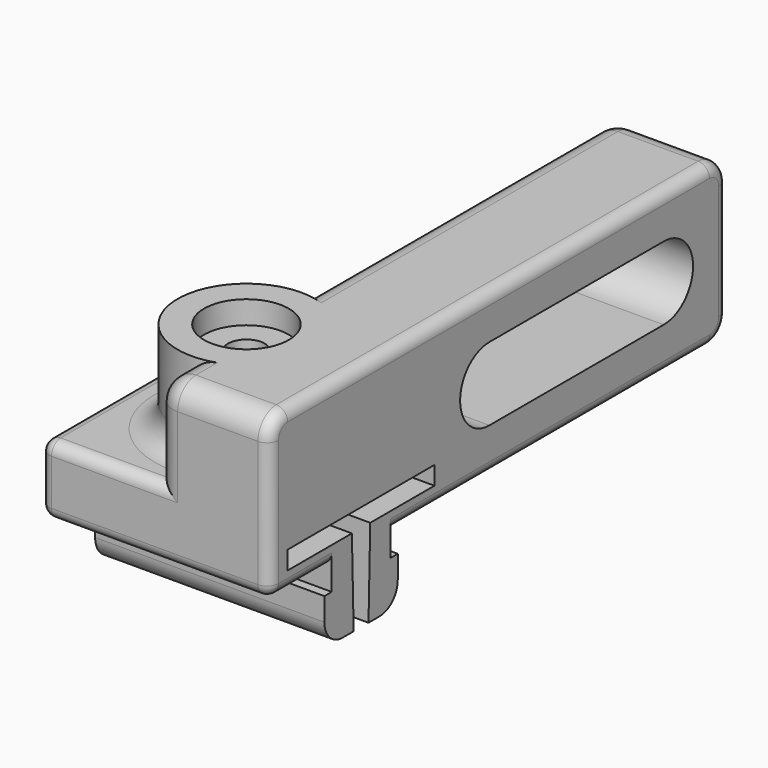
from build123d import *

# Parameters (mm, degrees)
PAD019_DEPTH        = 5
SKETCH042_R         = 3
PAD023_DEPTH        = 4
FILLET018_R         = 1
SKETCH041_W         = 7
SKETCH041_H         = 5
PAD024_DEPTH        = 25
HOLE007_D           = 1.6
HOLE007_CBORE_D     = 3.7
HOLE007_CBORE_DEPTH = 1
POCKET018_DEPTH     = 5.001
POCKET019_DEPTH     = 10.001
FILLET019_R         = 1
FILLET020_R         = 0.5
FILLET021_R         = 1


with BuildPart() as part:
    # Sketch033 → Pad019 (new body, symmetric)
    with BuildSketch(Plane.YZ):
        Polygon((-5, 7.5), (-5, 10.5), (5, 10.5), (5, 7.5), (1.6, 7.5), (1.6, 6.5), (2, 6.5), (2, 4.5), (-2, 4.5), (-2, 6.5), (-1.6, 6.5), (-1.6, 7.5), align=None)
    extrude(amount=PAD019_DEPTH, both=True)

    # Sketch042 (on Face2 of Pad019) → Pad023 (join)
    with BuildSketch(Plane(origin=(0, 0, 10.5), x_dir=(0, -1, 0), z_dir=(0, 0, 1))):
        Circle(SKETCH042_R)
    extrude(amount=PAD023_DEPTH)

    # Fillet018
    fillet018_edges = [part.edges().sort_by_distance(p)[0] for p in [
        (0, 3, 10.5),
    ]]
    fillet(fillet018_edges, radius=FILLET018_R)

    # Sketch041 (on DatumPlane) → Pad024 (join)
    with BuildSketch(Plane(origin=(0, -5, 0), x_dir=(0, 0, -1), z_dir=(0, -1, 0))):
        with Locations((-11, 2.5)):
            Rectangle(SKETCH041_W, SKETCH041_H)
    extrude(amount=-PAD024_DEPTH)

    # Hole007 (through all)
    with Locations(Plane(origin=(0, 0, 14.5), x_dir=(0, -1, 0), z_dir=(0, 0, 1))):
        with Locations((0, 0)):
            CounterBoreHole(HOLE007_D / 2, HOLE007_CBORE_D / 2, HOLE007_CBORE_DEPTH)

    # Sketch044 (on DatumPlane) → Pocket018 (cut, through all)
    with BuildSketch(Plane(origin=(0, 0, 0), x_dir=(0, 1, 0), z_dir=(-1, 0, 0))):
        with BuildLine():
            ThreePointArc((7, -9.4), (5.4, -11), (7, -12.6))
            Line((7, -12.6), (16.5, -12.6))
            ThreePointArc((16.5, -12.6), (18.1, -11), (16.5, -9.4))
            Line((7, -9.4), (16.5, -9.4))
        make_face()
    extrude(amount=-POCKET018_DEPTH, mode=Mode.SUBTRACT)

    # Sketch034 → Pocket019 (cut, through all)
    with BuildSketch(Plane.YZ.offset(5)):
        Polygon((0.5, 8.3), (0.4, 4.3), (-0.4, 4.3), (-0.5, 8.3), (-4, 8.3), (-4, 9.1), (4, 9.1), (4, 8.3), align=None)
    extrude(amount=-POCKET019_DEPTH, mode=Mode.SUBTRACT)

    # Fillet019
    fillet019_edges = [part.edges().sort_by_distance(p)[0] for p in [
        (0, -5, 12.5),
        (2.5, -5, 14.5),
        (0, 11.5, 14.5),
        (0, -4, 14.5),
        (0, 20, 11),
        (0, 12.5, 7.5),
        (2.5, 20, 14.5),
        (2.5, 20, 7.5),
    ]]
    fillet(fillet019_edges, radius=FILLET019_R)

    # Fillet020
    fillet020_edges = [part.edges().sort_by_distance(p)[0] for p in [
        (-5, 0, 10.5),
        (-2.5, -5, 10.5),
        (0.5, -5, 10.5),
        (-5, -5, 9),
        (0, -5, 7.5),
        (-5, -3.3, 7.5),
        (-5, 3.3, 7.5),
        (-5, 5, 9),
        (-2.5, 5, 10.5),
        (-2.5, 5, 7.5),
        (0.5, 5, 7.5),
        (5, 20, 11),
        (5, 19.707107, 7.792893),
        (5, 10.3, 7.5),
        (5, -3.3, 7.5),
        (5, -5, 10.5),
        (5, -4.707107, 14.207107),
        (5, 7.5, 14.5),
        (5, 19.707107, 14.207107),
    ]]
    fillet(fillet020_edges, radius=FILLET020_R)

    # Fillet021
    fillet021_edges = [part.edges().sort_by_distance(p)[0] for p in [
        (0, -2, 4.5),
        (0, 2, 4.5),
    ]]
    fillet(fillet021_edges, radius=FILLET021_R)


with BuildPart() as part_1:
    # Body004 placement: moved
    add(part.part.moved(Location((-37.45, 0, 0))))


solid = part_1.part
